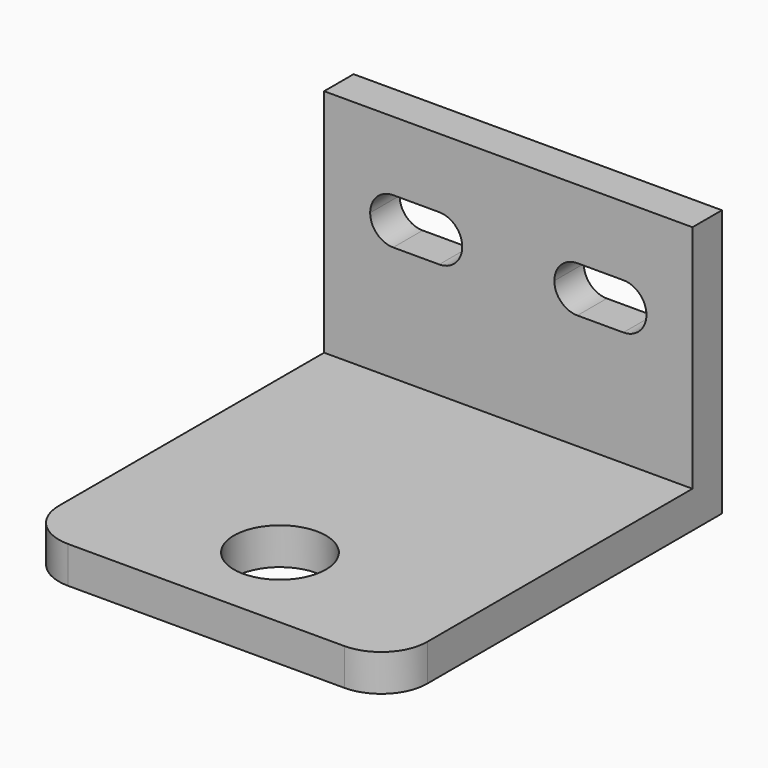
from build123d import *

# Parameters (mm, degrees)
F1_DEPTH = 4
F2_W     = 40
F2_H     = 4
F3_DEPTH = 25
F5_DEPTH = 25
F6_R     = 5
F7_DEPTH = 25


with BuildPart() as f1:
    # F0 (on Top) → F1 (new body)
    with BuildSketch(Plane.XY):
        with BuildLine():
            Line((-35, 0), (-5, 0))
            ThreePointArc((-5, 0), (-1.464466, 1.464466), (0, 5))
            Line((0, 5), (0, 45))
            Line((0, 45), (-40, 45))
            Line((-40, 45), (-40, 5))
            ThreePointArc((-40, 5), (-38.535534, 1.464466), (-35, 0))
        make_face()
    extrude(amount=F1_DEPTH)

    # F2 (on face) → F3 (join)
    with BuildSketch(Plane.XY.offset(4)):
        with Locations((-20, 43)):
            Rectangle(F2_W, F2_H)
    extrude(amount=F3_DEPTH)

    # F4 (on face) → F5 (cut)
    with BuildSketch(Plane(origin=(0, 45, 0), x_dir=(-1, 0, 0), z_dir=(0, 1, 0))):
        with BuildLine():
            ThreePointArc((25, 19), (25.732233, 17.232233), (27.5, 16.5))
            Line((27.5, 16.5), (32.5, 16.5))
            ThreePointArc((32.5, 16.5), (34.267767, 17.232233), (35, 19))
            ThreePointArc((35, 19), (34.267767, 20.767767), (32.5, 21.5))
            Line((32.5, 21.5), (27.5, 21.5))
            ThreePointArc((27.5, 21.5), (25.732233, 20.767767), (25, 19))
        make_face()
        with BuildLine():
            ThreePointArc((5, 19), (5.732233, 17.232233), (7.5, 16.5))
            Line((7.5, 16.5), (12.5, 16.5))
            ThreePointArc((12.5, 16.5), (14.267767, 17.232233), (15, 19))
            ThreePointArc((15, 19), (14.267767, 20.767767), (12.5, 21.5))
            Line((12.5, 21.5), (7.5, 21.5))
            ThreePointArc((7.5, 21.5), (5.732233, 20.767767), (5, 19))
        make_face()
    extrude(amount=-F5_DEPTH, mode=Mode.SUBTRACT)

    # F6 (on face) → F7 (cut)
    with BuildSketch(Plane(origin=(0, 0, 0), x_dir=(1, 0, 0), z_dir=(0, 0, -1))):
        with Locations((-20, -10)):
            Circle(F6_R)
    extrude(amount=-F7_DEPTH, mode=Mode.SUBTRACT)


solid = f1.part
